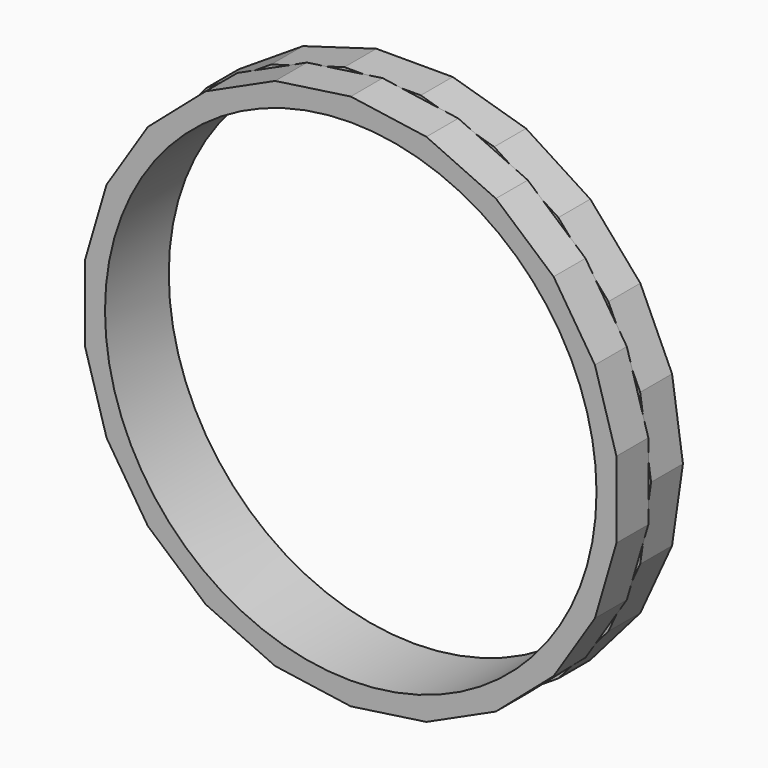
from build123d import *

# Parameters (mm, degrees)
F0_R     = 9.25
F1_DEPTH = 1.5
F2_R     = 9.25
F3_DEPTH = 1.5


with BuildPart() as f1:
    # F0 (on Front) → F1 (new body)
    with BuildSketch(Plane.XZ):
        Polygon((6.615948, 7.635211), (4.196868, 9.189859), (1.437783, 10), (-1.437783, 10), (-4.196868, 9.189859), (-6.615948, 7.635211), (-8.499043, 5.462003), (-9.693597, 2.846297), (-10.102832, 0), (-9.693597, -2.846297), (-8.499043, -5.462003), (-6.615948, -7.635211), (-4.196868, -9.189859), (-1.437783, -10), (1.437783, -10), (4.196868, -9.189859), (6.615948, -7.635211), (8.499043, -5.462003), (9.693597, -2.846297), (10.102832, 0), (9.693597, 2.846297), (8.499043, 5.462003), align=None)
        Circle(F0_R, mode=Mode.SUBTRACT)
    extrude(amount=F1_DEPTH)

    # F2 (on face) → F3 (join)
    with BuildSketch(Plane.XZ.offset(1.5)):
        Polygon((5.462003, 8.499043), (2.846297, 9.693597), (0, 10.102832), (-2.846297, 9.693597), (-5.462003, 8.499043), (-7.635211, 6.615948), (-9.189859, 4.196868), (-10, 1.437783), (-10, -1.437783), (-9.189859, -4.196868), (-7.635211, -6.615948), (-5.462003, -8.499043), (-2.846297, -9.693597), (0, -10.102832), (2.846297, -9.693597), (5.462003, -8.499043), (7.635211, -6.615948), (9.189859, -4.196868), (10, -1.437783), (10, 1.437783), (9.189859, 4.196868), (7.635211, 6.615948), align=None)
        Circle(F2_R, mode=Mode.SUBTRACT)
    extrude(amount=F3_DEPTH)


solid = f1.part
